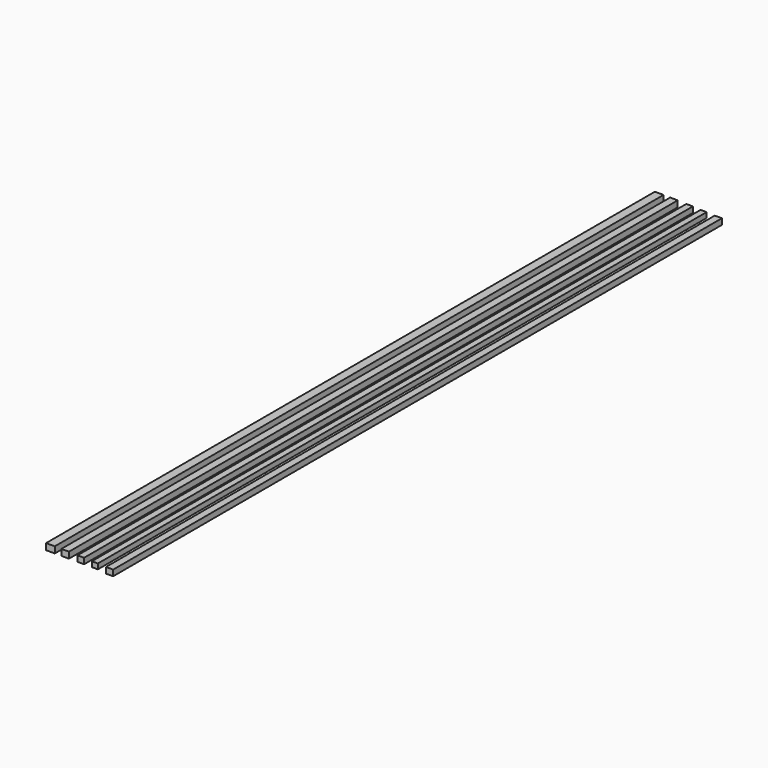
from build123d import *

# Parameters (mm, degrees)
F0_W     = 11.429999
F0_H     = 8.295968
F0_W_2   = 9.955162
F0_H_2   = 8.111613
F0_W_3   = 8.664678
F0_H_3   = 7.558548
F0_W_4   = 7.927257
F0_H_4   = 6.821129
F0_W_5   = 9.402095
F0_H_5   = 7.742903
F1_DEPTH = 1000


with BuildPart() as f1:
    # F0 (on Front) → F1 (new body)
    with BuildSketch(Plane.XZ):
        with Locations((-44.245162, 4.147984)):
            Rectangle(F0_W, F0_H)
        with Locations((-24.887904, 4.055807)):
            Rectangle(F0_W_2, F0_H_2)
        with Locations((-4.332339, 3.779274)):
            Rectangle(F0_W_3, F0_H_3)
        with Locations((14.103144, 3.410564)):
            Rectangle(F0_W_4, F0_H_4)
        with Locations((33.460406, 2.396612)):
            Rectangle(F0_W_5, F0_H_5)
    extrude(amount=F1_DEPTH)


solid = f1.part
